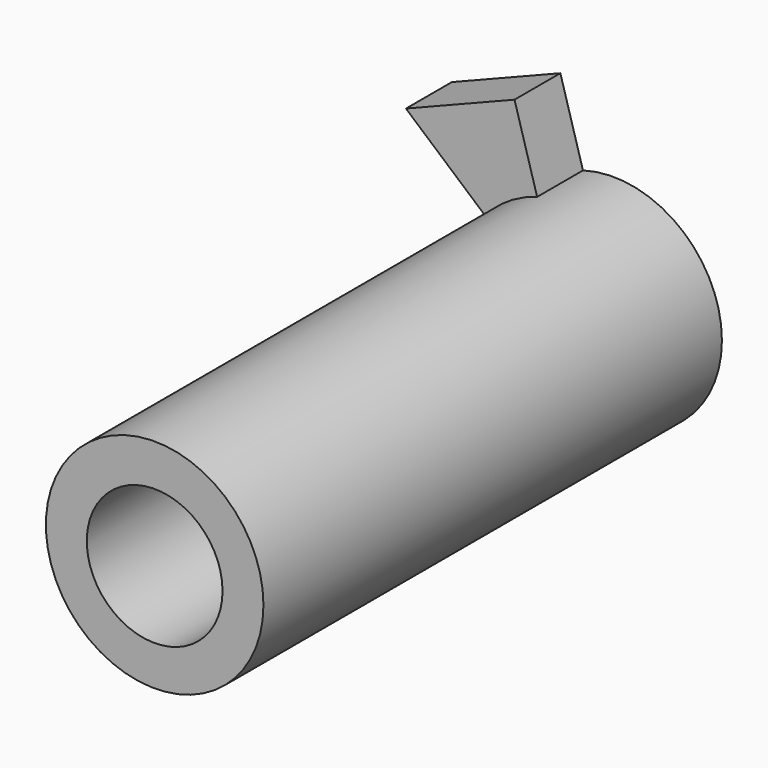
from build123d import *

# Parameters (mm, degrees)
F1_DEPTH = 25.4
F2_R     = 48.212619
F2_R_2   = 30.081793
F3_DEPTH = 254


with BuildPart() as f1:
    # F0 (on Front) → F1 (new body)
    with BuildSketch(Plane.XZ):
        Polygon((-23.385614, 80.983482), (-71.508929, 61.867438), (0, 0), align=None)
    extrude(amount=F1_DEPTH)


with BuildPart() as f3:
    # F2 (on Front) → F3 (new body)
    with BuildSketch(Plane.XZ):
        Circle(F2_R)
        with Locations((0, -0.433072)):
            Circle(F2_R_2, mode=Mode.SUBTRACT)
    extrude(amount=F3_DEPTH)


solid = Compound([f1.part, f3.part])
